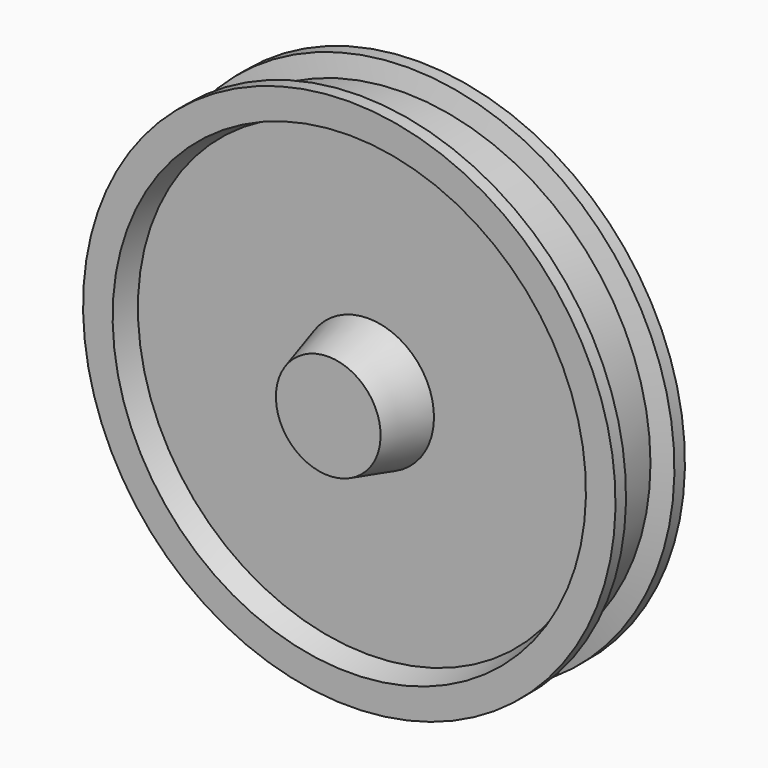
from build123d import *


with BuildPart() as f2:
    # F1 (on Right) → F2 (revolve)
    with BuildSketch(Plane.YZ):
        Polygon((-30, 0), (30, 0), (30, 100), (30, 350.3538290725), (66, 360), (66, 405), (46, 405), (37.9615242271, 375), (0, 375), (-37.9615242271, 375), (-46, 405), (-66, 405), (-66, 360), (-30, 350.3538290725), (-30, 100), align=None)
        Polygon((30, 100), (30, 0), (106, 0), (106, 79.6358613752), align=None)
        Polygon((-106, 0), (-30, 0), (-30, 100), (-106, 79.6358613752), align=None)
    revolve(axis=Axis((0, 0, 0), (0, -1, 0)))


solid = f2.part
